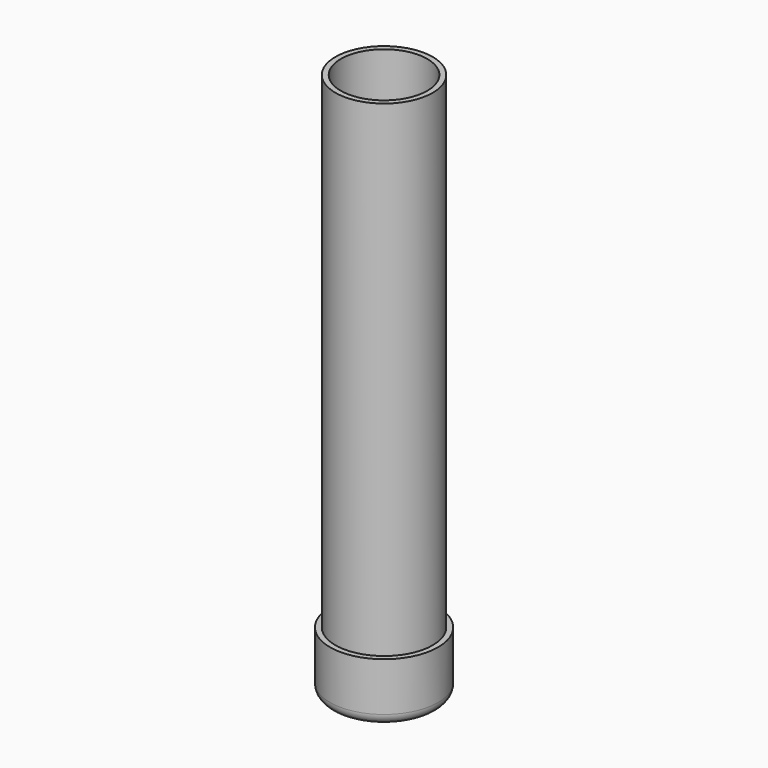
from build123d import *

# Parameters (mm, degrees)
F0_R        = 45
F0_R_2      = 40
F1_DEPTH    = 500
F0_R_3      = 50
F2_DEPTH    = 50
F2_FACE_R   = 50
F2_FACE_R_2 = 45
F1_FACE_R   = 45
F1_FACE_R_2 = 40
F3_DEPTH    = 5
F4_R        = 10


with BuildPart() as f1:
    # F0 (on Top) → F1 (new body)
    with BuildSketch(Plane.XY):
        Circle(F0_R)
        Circle(F0_R_2, mode=Mode.SUBTRACT)
    extrude(amount=F1_DEPTH)

    # F0 (on Top) → F2 (join)
    with BuildSketch(Plane.XY):
        Circle(F0_R_3)
        Circle(F0_R, mode=Mode.SUBTRACT)
    extrude(amount=F2_DEPTH)

    # F2_face (on face) + F1_face (on face) + F0 (on Top) → F3 (join)
    with BuildSketch(Plane.XY.offset(50)):
        Circle(F2_FACE_R)
        Circle(F2_FACE_R_2, mode=Mode.SUBTRACT)
    with BuildSketch(Plane.XY.offset(500)):
        Circle(F1_FACE_R)
        Circle(F1_FACE_R_2, mode=Mode.SUBTRACT)
    with BuildSketch(Plane.XY):
        Circle(F0_R_2)
    extrude(amount=F3_DEPTH)

    # F4
    f4_edges = [f1.edges().sort_by_distance(p)[0] for p in [
        (-50, 0, 0),
    ]]
    fillet(f4_edges, radius=F4_R)


solid = f1.part
